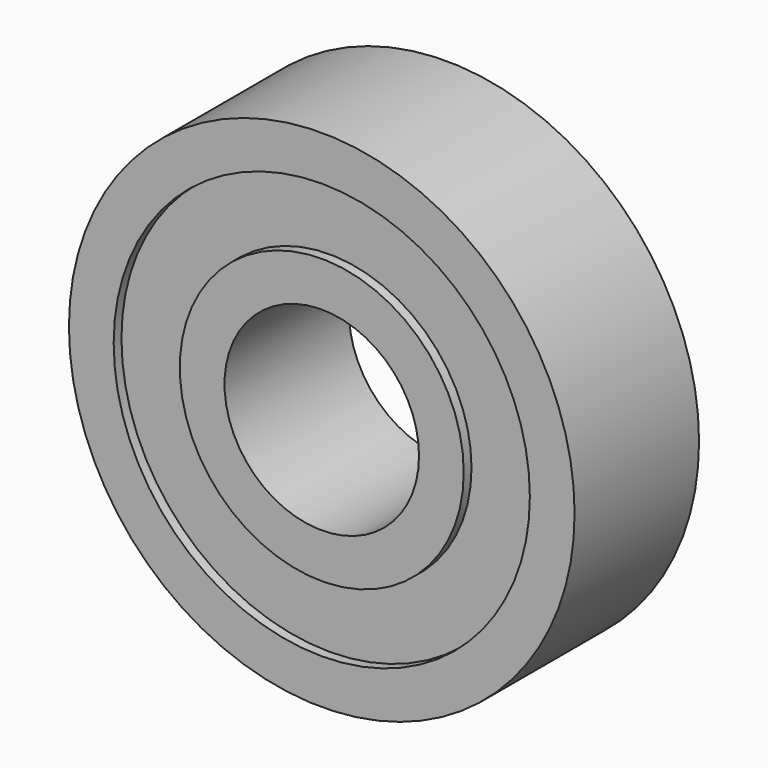
from build123d import *

# Parameters (mm, degrees)
F1_R     = 6.5
F1_R_2   = 5.35
F2_DEPTH = 2
F3_R     = 3.65
F3_R_2   = 2.5
F4_DEPTH = 2
F5_R     = 5.35
F5_R_2   = 3.65
F6_DEPTH = 1.75


with BuildPart() as f2:
    # F1 (on Front) → F2 (new body, symmetric)
    with BuildSketch(Plane.XZ):
        Circle(F1_R)
        Circle(F1_R_2, mode=Mode.SUBTRACT)
    extrude(amount=F2_DEPTH, both=True)



with BuildPart() as f4:
    # F3 (on Front) → F4 (new body, symmetric)
    with BuildSketch(Plane.XZ):
        Circle(F3_R)
        Circle(F3_R_2, mode=Mode.SUBTRACT)
    extrude(amount=F4_DEPTH, both=True)


with BuildPart() as f2_1:
    add(f2.part)

    add(f4.part)  # F6 merges F4
    # F5 (on Front) → F6 (join, symmetric)
    with BuildSketch(Plane.XZ):
        Circle(F5_R)
        Circle(F5_R_2, mode=Mode.SUBTRACT)
    extrude(amount=F6_DEPTH, both=True)


solid = f2_1.part
